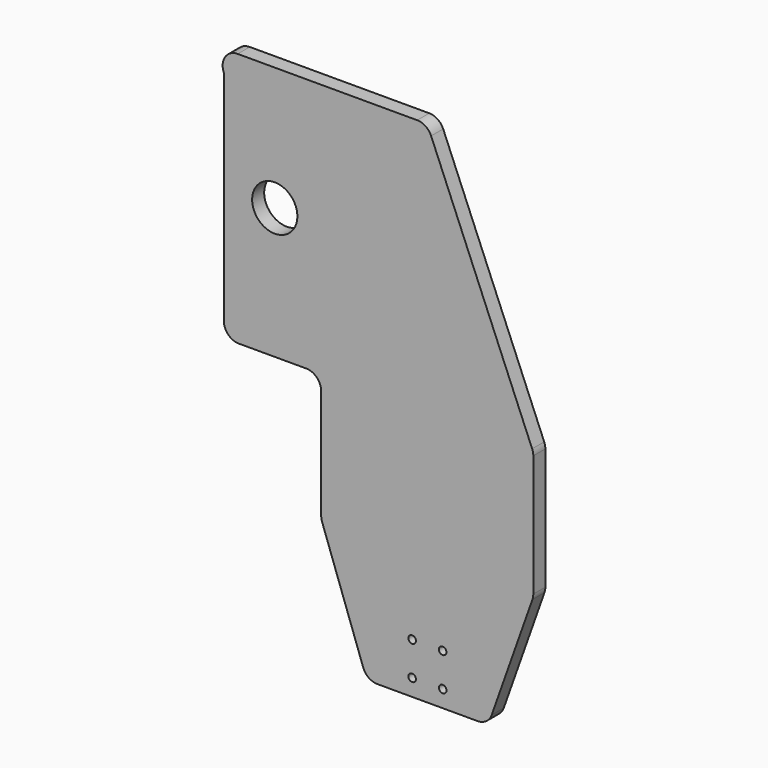
from build123d import *

# Parameters (mm, degrees)
F0_R     = 3.175
F0_R_2   = 19.05
F1_DEPTH = 12.7


with BuildPart() as f1:
    # F0 (on Front) → F1 (new body)
    with BuildSketch(Plane.XZ):
        with BuildLine():
            ThreePointArc((3.255586, 206.627374), (-1.422722, 212.311374), (-8.46843, 214.445012))
            Line((-8.46843, 214.445012), (-89.303713, 214.445012))
            Line((-89.303713, 214.445012), (-159.59929, 214.445012))
            ThreePointArc((-159.59929, 214.445012), (-170.206482, 208.7291), (-171.265677, 196.726505))
            Line((-171.265677, 196.726505), (-171.265677, 12.7))
            ThreePointArc((-171.265677, 12.7), (-167.545933, 3.719744), (-158.565677, 0))
            Line((-158.565677, 0), (-102.003713, 0))
            ThreePointArc((-102.003713, 0), (-93.023457, -3.719744), (-89.303713, -12.7))
            Line((-89.303713, -12.7), (-89.303713, -105.017532))
            ThreePointArc((-89.303713, -105.017532), (-89.116521, -107.190006), (-88.560462, -109.298437))
            Line((-88.560462, -109.298437), (-53.928878, -206.025918))
            ThreePointArc((-53.928878, -206.025918), (-49.283849, -212.129075), (-41.972128, -214.445012))
            Line((-41.972128, -214.445012), (42.315757, -214.445012))
            ThreePointArc((42.315757, -214.445012), (49.643495, -212.117778), (54.285663, -205.98899))
            Line((54.285663, -205.98899), (88.573619, -109.281696))
            ThreePointArc((88.573619, -109.281696), (89.119859, -107.190878), (89.303713, -105.037718))
            Line((89.303713, -105.037718), (89.303713, -2.538731))
            ThreePointArc((89.303713, -2.538731), (89.057327, -0.049253), (88.327729, 2.343631))
            Line((88.327729, 2.343631), (3.255586, 206.627374))
        make_face()
        with Locations((-12.707451, -200.245949)):
            Circle(F0_R, mode=Mode.SUBTRACT)
        with Locations((-12.707451, -171.901464)):
            Circle(F0_R, mode=Mode.SUBTRACT)
        with Locations((13.02831, -200.22533)):
            Circle(F0_R, mode=Mode.SUBTRACT)
        with Locations((12.982891, -171.880881)):
            Circle(F0_R, mode=Mode.SUBTRACT)
        with Locations((-128.404737, 110.381648)):
            Circle(F0_R_2, mode=Mode.SUBTRACT)
    extrude(amount=F1_DEPTH)


solid = f1.part
